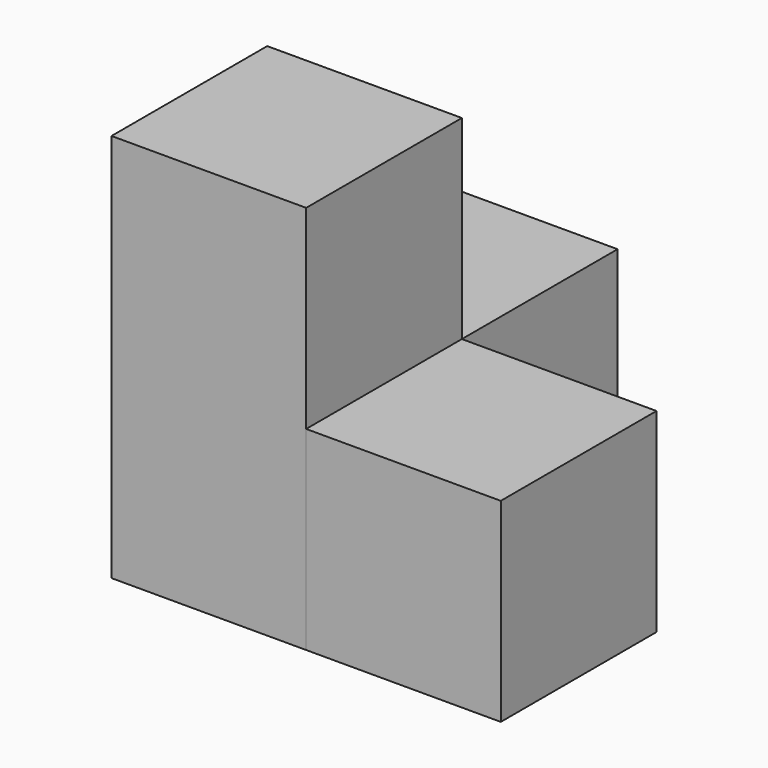
from build123d import *

# Parameters (mm, degrees)
BOX_W        = 10
BOX_H        = 10
BOX_DEPTH    = 20
BOX001_W     = 10
BOX001_H     = 10
BOX001_DEPTH = 10
BOX002_W     = 10
BOX002_H     = 10
BOX002_DEPTH = 10


with BuildPart() as nivell1_cub1:
    # Box → Box (new body)
    with BuildSketch(Plane.XY):
        with Locations((5, 5)):
            Rectangle(BOX_W, BOX_H)
    extrude(amount=BOX_DEPTH)


with BuildPart() as nivell2_cub1:
    # Box001 → Box001 (new body)
    with BuildSketch(Plane(origin=(10, 0, 0), x_dir=(1, 0, 0), z_dir=(0, 0, 1))):
        with Locations((5, 5)):
            Rectangle(BOX001_W, BOX001_H)
    extrude(amount=BOX001_DEPTH)


with BuildPart() as nivell2_cub2:
    # Box002 → Box002 (new body)
    with BuildSketch(Plane(origin=(0, 10, 0), x_dir=(1, 0, 0), z_dir=(0, 0, 1))):
        with Locations((5, 5)):
            Rectangle(BOX002_W, BOX002_H)
    extrude(amount=BOX002_DEPTH)


solid = Compound([nivell1_cub1.part, nivell2_cub1.part, nivell2_cub2.part])
